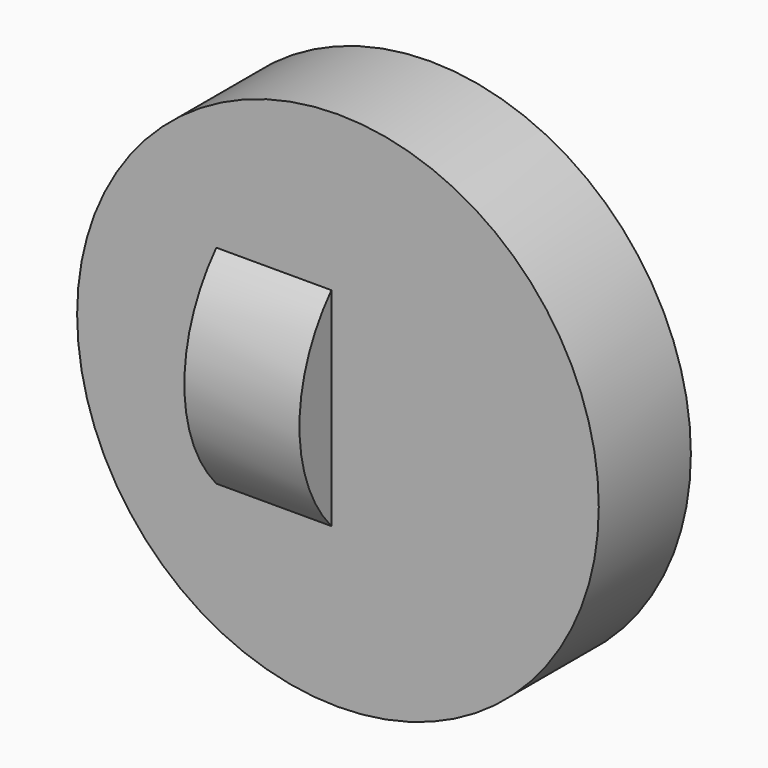
from build123d import *

# Parameters (mm, degrees)
F0_R     = 34.2116613635
F1_DEPTH = 25.4
F2_R     = 57.5601591622
F3_DEPTH = 25.4
F5_D     = 6.35


with BuildPart() as f1:
    # F0 (on Right) → F1 (new body)
    with BuildSketch(Plane.YZ):
        Circle(F0_R)
    extrude(amount=F1_DEPTH)

    # F2 (on Front) → F3 (join)
    with BuildSketch(Plane.XZ):
        with Locations((26.8488749862, 0)):
            Circle(F2_R)
    extrude(amount=F3_DEPTH)

    # F5 (through all)
    with Locations(Plane(origin=(0, 0, 0), x_dir=(0, 1, 0), z_dir=(-1, 0, 0))):
        with Locations((22.584579885, 3.1673496123)):
            Hole(F5_D / 2)


solid = f1.part
